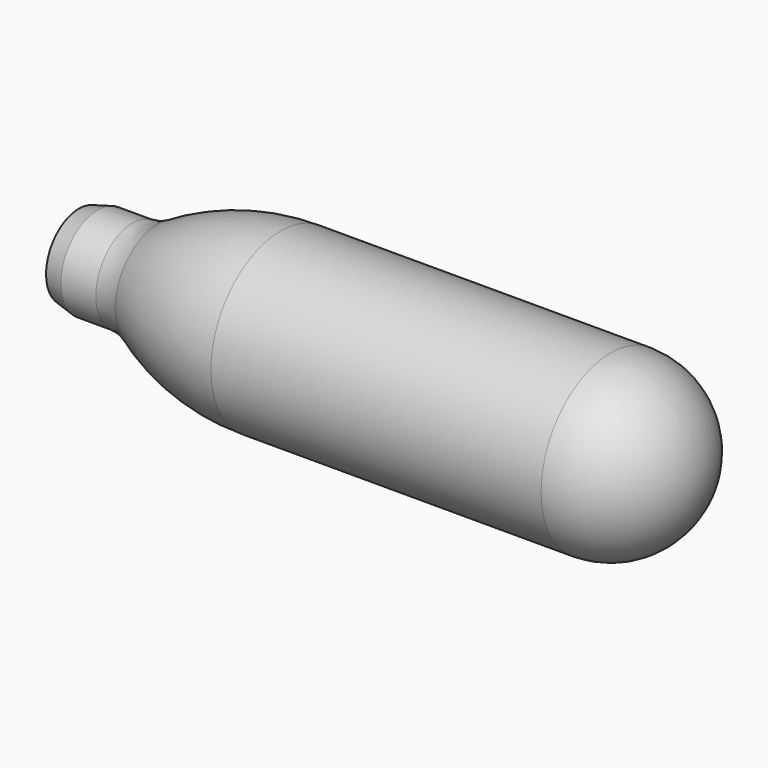
from build123d import *

# Parameters (mm, degrees)
F2_R = 9
F3_R = 5


with BuildPart() as f1:
    # F0 (on Front) → F1 (revolve)
    with BuildSketch(Plane.XZ):
        with BuildLine():
            Line((0, 4.25), (0, 0))
            Line((0, 0), (64, 0))
            Line((64, 0), (64, 9))
            Line((64, 9), (20.85148, 9))
            ThreePointArc((20.85148, 9), (13.607068, 7.913606), (7, 4.75))
            Line((7, 4.75), (1.936492, 4.75))
            Line((1.936492, 4.75), (0, 4.25))
        make_face()
    revolve(axis=Axis((32, 0, 0), (1, 0, 0)))

    # F2
    f2_edges = [f1.edges().sort_by_distance(p)[0] for p in [
        (64, 0, -9),
    ]]
    fillet(f2_edges, radius=F2_R)

    # F3
    f3_edges = [f1.edges().sort_by_distance(p)[0] for p in [
        (7, 0, -4.75),
    ]]
    fillet(f3_edges, radius=F3_R)


solid = f1.part
